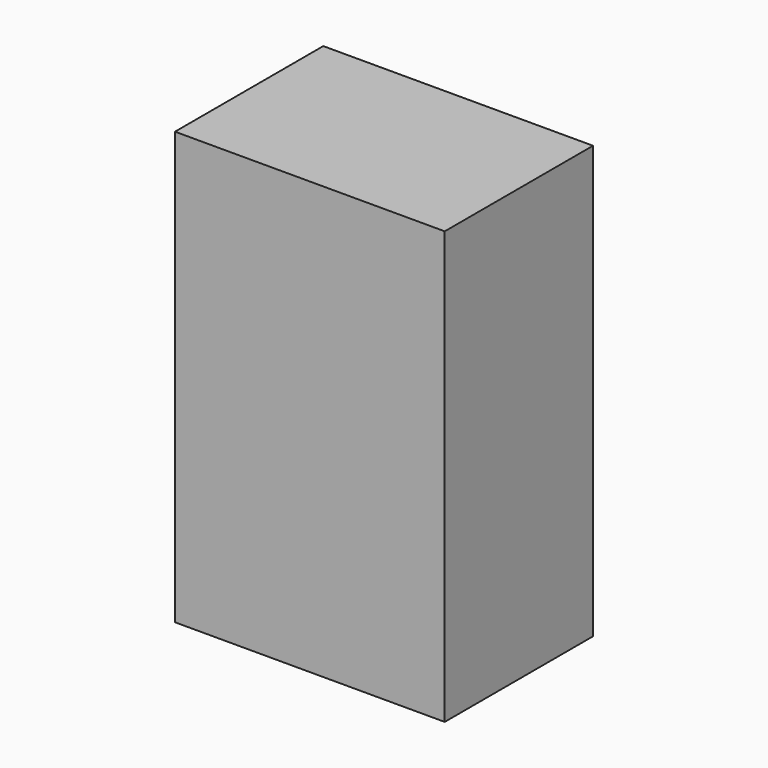
from build123d import *

# Parameters (mm, degrees)
F0_W     = 79.0167599916
F0_H     = 16.8677717447
F1_DEPTH = 25.4
F0_W_2   = 19.6694098413
F0_H_2   = 41.121551767
F0_W_3   = 34.9301528186
F0_H_3   = 109.2894896865
F0_W_4   = 36.9649194181
F0_H_4   = 59.1894388199


with BuildPart() as f1:
    # F0 (on Front) → F1 (new body)
    with BuildSketch(Plane.XZ):
        with Locations((-127.3424550891, 41.0692133009)):
            Rectangle(F0_W, F0_H)
    extrude(amount=F1_DEPTH)


with BuildPart() as f1b:
    # F0 (on Front) → F1, piece 2 (new body)
    with BuildSketch(Plane.XZ):
        with Locations((-37.3040493578, 48.2394723222)):
            Rectangle(F0_W_2, F0_H_2)
    extrude(amount=F1_DEPTH)


with BuildPart() as f1c:
    # F0 (on Front) → F1, piece 3 (new body)
    with BuildSketch(Plane.XZ):
        with Locations((23.5693762079, 3.0734874308)):
            Rectangle(F0_W_3, F0_H_3)
    extrude(amount=F1_DEPTH)


with BuildPart() as f1d:
    # F0 (on Front) → F1, piece 4 (new body)
    with BuildSketch(Plane.XZ):
        with Locations((-77.4906817824, -86.4647701383)):
            Rectangle(F0_W_4, F0_H_4)
    extrude(amount=F1_DEPTH)


solid = f1d.part
